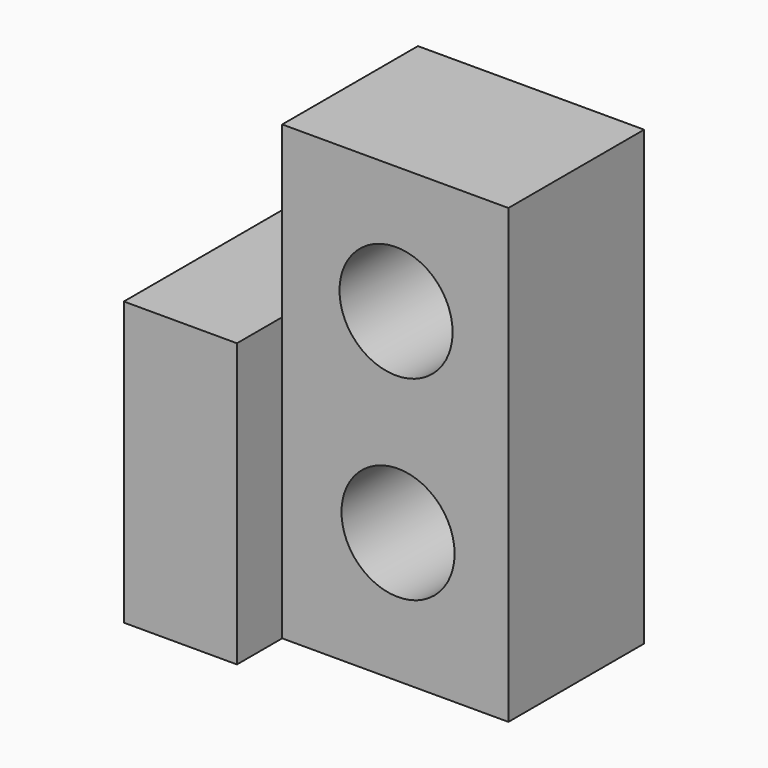
from build123d import *

# Parameters (mm, degrees)
F0_W     = 20
F0_H     = 40
F0_R     = 5
F1_DEPTH = 15
F2_W     = 10
F2_H     = 25
F3_DEPTH = 20


with BuildPart() as f1:
    # F0 (on Front) → F1 (new body)
    with BuildSketch(Plane.XZ):
        with Locations((-0.241439, 0.093972)):
            Rectangle(F0_W, F0_H)
        with Locations((0, -8.363663)):
            Circle(F0_R, mode=Mode.SUBTRACT)
        with Locations((-0.175462, 8.823225)):
            Circle(F0_R, mode=Mode.SUBTRACT)
    extrude(amount=F1_DEPTH)

    # F2 (on Front) → F3 (join)
    with BuildSketch(Plane.XZ):
        with Locations((-15.241439, -7.406028)):
            Rectangle(F2_W, F2_H)
    extrude(amount=F3_DEPTH)


solid = f1.part
